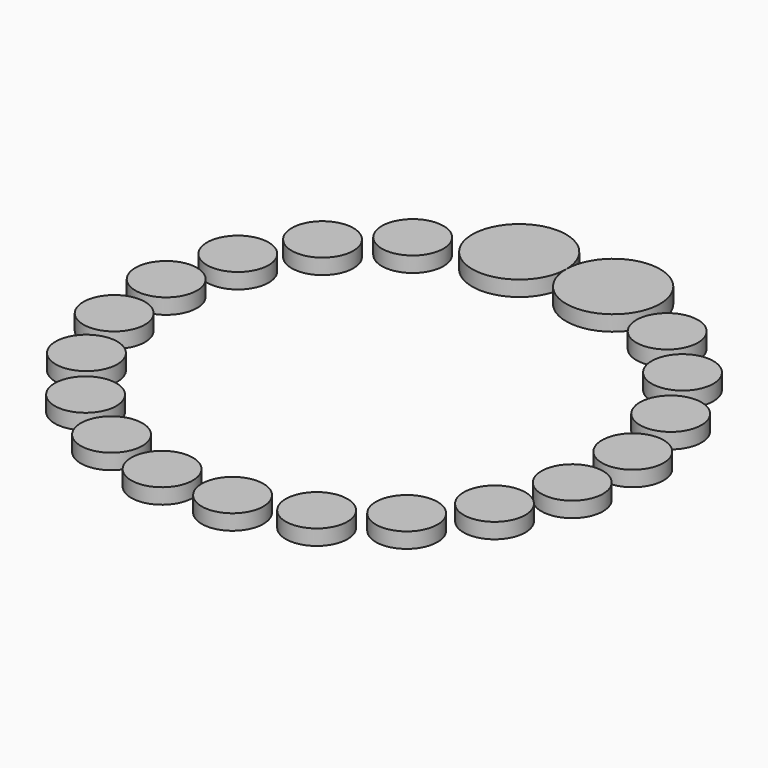
from build123d import *

# Parameters (mm, degrees)
F0_R     = 76.2
F0_R_2   = 50
F1_DEPTH = 25


with BuildPart() as f1:
    # F0 (on Top) → F1 (new body)
    with BuildSketch(Plane.XY):
        with Locations((-76.2, 372.28156)):
            Circle(F0_R)
        with BuildLine():
            ThreePointArc((152.4, 372.28156), (76.2, 448.48156), (0, 372.28156))
            ThreePointArc((0, 372.28156), (76.2, 296.08156), (152.4, 372.28156))
        make_face()
        with Locations((-206.391301, 319.065246)):
            Circle(F0_R_2)
        with Locations((-291.962628, 243.223815)):
            Circle(F0_R_2)
        with Locations((-351.098852, 145.360228)):
            Circle(F0_R_2)
        with Locations((-378.445618, 34.335326)):
            Circle(F0_R_2)
        with Locations((-371.526872, -79.798392)):
            Circle(F0_R_2)
        with Locations((-330.969058, -186.706943)):
            Circle(F0_R_2)
        with Locations((-260.444392, -276.710533)):
            Circle(F0_R_2)
        with Locations((-166.338371, -341.659986)):
            Circle(F0_R_2)
        with Locations((-57.171616, -375.674602)):
            Circle(F0_R_2)
        with Locations((57.171616, -375.674602)):
            Circle(F0_R_2)
        with Locations((166.338371, -341.659986)):
            Circle(F0_R_2)
        with Locations((260.444392, -276.710533)):
            Circle(F0_R_2)
        with Locations((330.969058, -186.706943)):
            Circle(F0_R_2)
        with Locations((371.526872, -79.798392)):
            Circle(F0_R_2)
        with Locations((378.445618, 34.335326)):
            Circle(F0_R_2)
        with Locations((351.098852, 145.360228)):
            Circle(F0_R_2)
        with Locations((291.962628, 243.223815)):
            Circle(F0_R_2)
        with Locations((206.391301, 319.065246)):
            Circle(F0_R_2)
    extrude(amount=F1_DEPTH)


solid = f1.part
